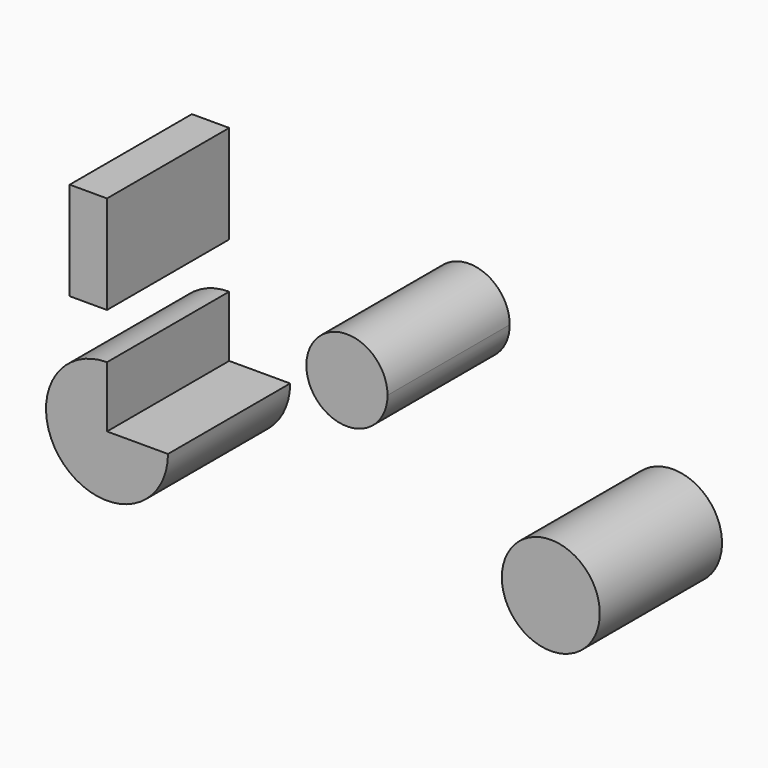
from build123d import *

# Parameters (mm, degrees)
F0_W     = 6.202321
F0_H     = 16.332792
F1_DEPTH = 25.4


with BuildPart() as f1:
    # F0 (on Front) → F1 (new body)
    with BuildSketch(Plane.XZ):
        with BuildLine():
            Line((-59.955817, 2.274186), (-59.955817, 12.413087))
            ThreePointArc((-59.955817, 12.413087), (-67.125102, -4.895099), (-49.816916, 2.274186))
            Line((-49.816916, 2.274186), (-59.955817, 2.274186))
        make_face()
        with Locations((-63.056977, 28.220582)):
            Rectangle(F0_W, F0_H)
        with BuildLine():
            ThreePointArc((21.999261, 2.274186), (13.851861, 10.421587), (5.70446, 2.274186))
            ThreePointArc((5.70446, 2.274186), (13.851861, -5.873214), (21.999261, 2.274186))
        make_face()
        with BuildLine():
            ThreePointArc((-13.304059, 22.74186), (-26.27723, 25.356804), (-15.330076, 17.920346))
            ThreePointArc((-15.330076, 17.920346), (-13.831142, 20.126915), (-13.304059, 22.74186))
        make_face()
    extrude(amount=F1_DEPTH)


solid = f1.part
